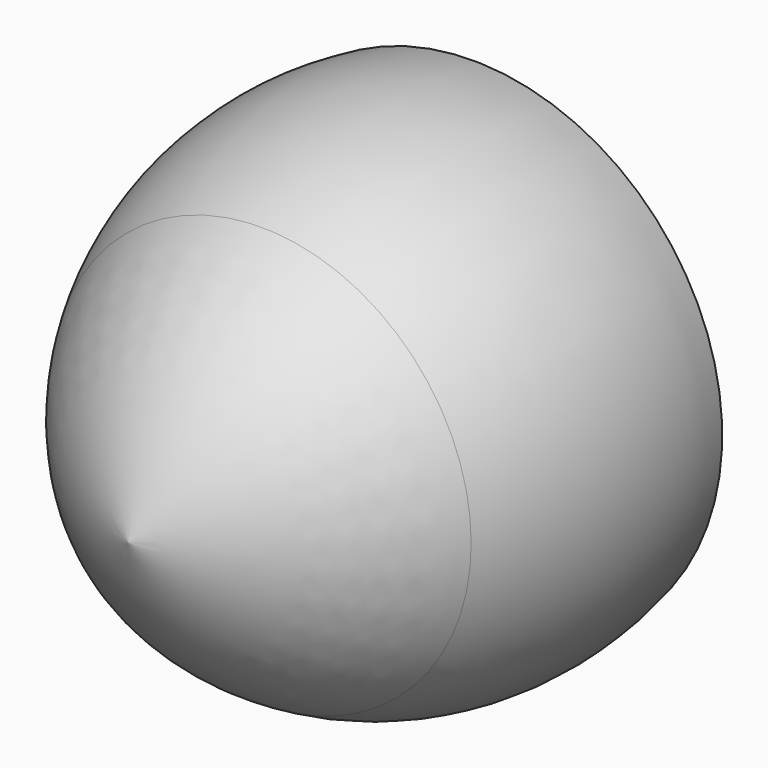
from build123d import *


with BuildPart() as f1:
    # F0 (on Top) → F1 (revolve)
    with BuildSketch(Plane.XY):
        with BuildLine():
            ThreePointArc((0, -19.807175), (14.390166, -12.289297), (25, 0))
            Line((25, 0), (0, 0))
            Line((0, 0), (0, -19.807175))
        make_face()
        Polygon((0, 0), (0, 43.30127), (-25, 0), align=None)
        with BuildLine():
            Line((-25, 0), (0, 43.30127))
            ThreePointArc((0, 43.30127), (-15.94776, 40.257533), (-29.653517, 31.554222))
            ThreePointArc((-29.653517, 31.554222), (-30.337926, 15.333034), (-25, 0))
        make_face()
    revolve(axis=Axis((0, 11.747048, 0), (0, -1, 0)))


solid = f1.part
